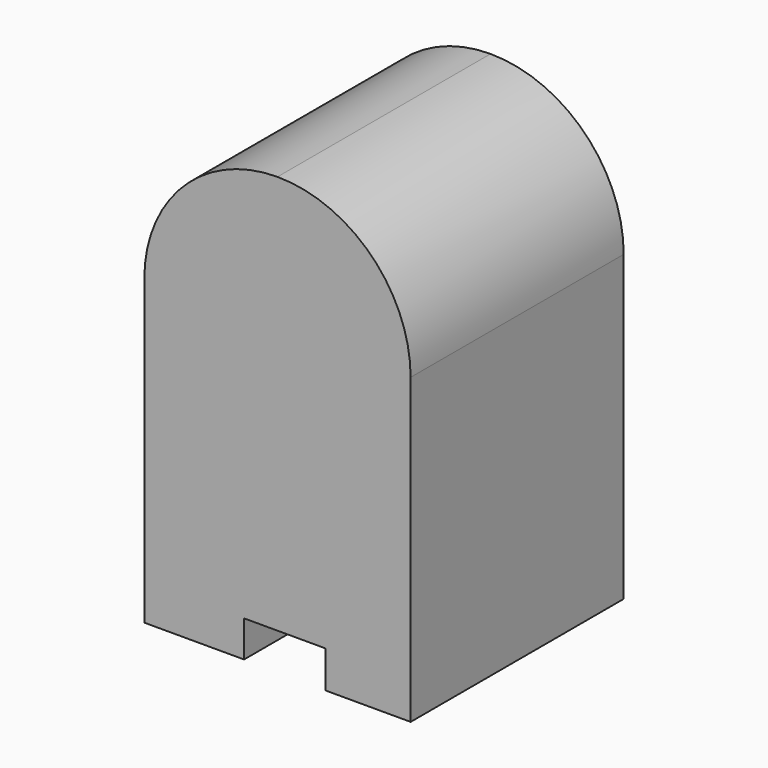
from build123d import *

# Parameters (mm, degrees)
F0_W     = 7.135232813
F0_H     = 2.5934374452
F0_W_2   = 6.0816000699
F0_H_2   = 2.6490783811
F1_DEPTH = 19.05


with BuildPart() as f1:
    # F0 (on Front) → F1 (new body)
    with BuildSketch(Plane.XZ):
        with Locations((-5.798423614, -20.3467187226)):
            Rectangle(F0_W, F0_H)
        Polygon((0.1589599795, -19.05), (0.1589599795, 0), (-9.3660400205, 0), (-9.3660400205, -19.05), (-2.2308072075, -19.05), align=None)
        with BuildLine():
            Line((0.1589599795, 0), (0.1589599795, 9.525))
            ThreePointArc((0.1589599795, 9.525), (-6.5762321113, 6.7351920908), (-9.3660400205, 0))
            Line((-9.3660400205, 0), (0.1589599795, 0))
        make_face()
        with BuildLine():
            Line((0.1589599795, 0), (9.6839599795, 0))
            ThreePointArc((9.6839599795, 0), (6.8941520703, 6.7351920908), (0.1589599795, 9.525))
            Line((0.1589599795, 9.525), (0.1589599795, 0))
        make_face()
        Polygon((9.6839599795, -19.05), (9.6839599795, 0), (0.1589599795, 0), (0.1589599795, -19.05), (3.6023599096, -19.05), align=None)
        with Locations((6.6431599445, -20.3745391905)):
            Rectangle(F0_W_2, F0_H_2)
    extrude(amount=F1_DEPTH)


solid = f1.part
